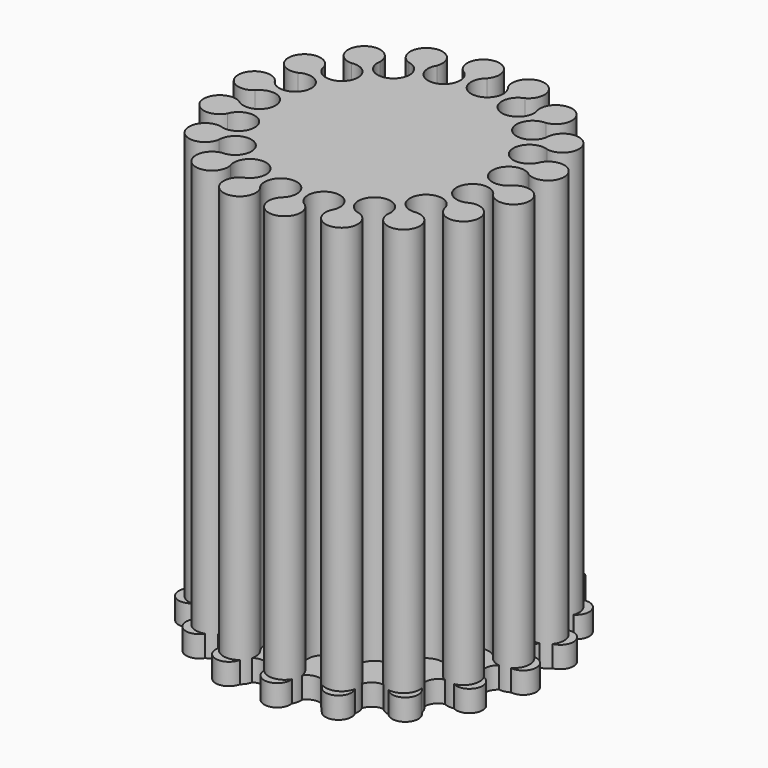
from build123d import *

# Parameters (mm, degrees)
F1_DEPTH = 5
F3_DEPTH = 100


with BuildPart() as f1:
    # F0 (on Top) → F1 (new body)
    with BuildSketch(Plane.XY):
        with BuildLine():
            ThreePointArc((6.077686, 34.468271), (2.784943, 31.83204), (0, 35))
            ThreePointArc((0, 35), (-3.316505, 37.907825), (-6.077686, 34.468271))
            ThreePointArc((-6.077686, 34.468271), (-8.270209, 30.86484), (-11.970705, 32.889242))
            ThreePointArc((-11.970705, 32.889242), (-16.081735, 34.487392), (-17.5, 30.310889))
            ThreePointArc((-17.5, 30.310889), (-18.327851, 26.174884), (-22.497566, 26.811556))
            ThreePointArc((-22.497566, 26.811556), (-26.90727, 26.90727), (-26.811556, 22.497566))
            ThreePointArc((-26.811556, 22.497566), (-26.174884, 18.327851), (-30.310889, 17.5))
            ThreePointArc((-30.310889, 17.5), (-34.487392, 16.081735), (-32.889242, 11.970705))
            ThreePointArc((-32.889242, 11.970705), (-30.86484, 8.270209), (-34.468271, 6.077686))
            ThreePointArc((-34.468271, 6.077686), (-37.907825, 3.316505), (-35, 0))
            ThreePointArc((-35, 0), (-31.83204, -2.784943), (-34.468271, -6.077686))
            ThreePointArc((-34.468271, -6.077686), (-36.756015, -9.848744), (-32.889242, -11.970705))
            ThreePointArc((-32.889242, -11.970705), (-28.959827, -13.504189), (-30.310889, -17.5))
            ThreePointArc((-30.310889, -17.5), (-31.170887, -21.82609), (-26.811556, -22.497566))
            ThreePointArc((-26.811556, -22.497566), (-22.594631, -22.594631), (-22.497566, -26.811556))
            ThreePointArc((-22.497566, -26.811556), (-21.82609, -31.170887), (-17.5, -30.310889))
            ThreePointArc((-17.5, -30.310889), (-13.504189, -28.959827), (-11.970705, -32.889242))
            ThreePointArc((-11.970705, -32.889242), (-9.848744, -36.756015), (-6.077686, -34.468271))
            ThreePointArc((-6.077686, -34.468271), (-2.784943, -31.83204), (0, -35))
            ThreePointArc((0, -35), (3.316505, -37.907825), (6.077686, -34.468271))
            ThreePointArc((6.077686, -34.468271), (8.270209, -30.86484), (11.970705, -32.889242))
            ThreePointArc((11.970705, -32.889242), (16.081735, -34.487392), (17.5, -30.310889))
            ThreePointArc((17.5, -30.310889), (18.327851, -26.174884), (22.497566, -26.811556))
            ThreePointArc((22.497566, -26.811556), (26.90727, -26.90727), (26.811556, -22.497566))
            ThreePointArc((26.811556, -22.497566), (26.174884, -18.327851), (30.310889, -17.5))
            ThreePointArc((30.310889, -17.5), (34.487392, -16.081735), (32.889242, -11.970705))
            ThreePointArc((32.889242, -11.970705), (30.86484, -8.270209), (34.468271, -6.077686))
            ThreePointArc((34.468271, -6.077686), (37.907825, -3.316505), (35, 0))
            ThreePointArc((35, 0), (31.83204, 2.784943), (34.468271, 6.077686))
            ThreePointArc((34.468271, 6.077686), (36.756015, 9.848744), (32.889242, 11.970705))
            ThreePointArc((32.889242, 11.970705), (28.959827, 13.504189), (30.310889, 17.5))
            ThreePointArc((30.310889, 17.5), (31.170887, 21.82609), (26.811556, 22.497566))
            ThreePointArc((26.811556, 22.497566), (22.594631, 22.594631), (22.497566, 26.811556))
            ThreePointArc((22.497566, 26.811556), (21.82609, 31.170887), (17.5, 30.310889))
            ThreePointArc((17.5, 30.310889), (13.504189, 28.959827), (11.970705, 32.889242))
            ThreePointArc((11.970705, 32.889242), (9.848744, 36.756015), (6.077686, 34.468271))
        make_face()
    extrude(amount=F1_DEPTH)


with BuildPart() as f3:
    # F2 (on Top) → F3 (new body)
    with BuildSketch(Plane.XY):
        with BuildLine():
            ThreePointArc((5.209445, 29.544233), (2.043604, 23.358495), (0, 30))
            ThreePointArc((0, 30), (-3.165842, 36.185737), (-5.209445, 29.544233))
            ThreePointArc((-5.209445, 29.544233), (-6.068717, 22.648759), (-10.260604, 28.190779))
            ThreePointArc((-10.260604, 28.190779), (-15.351169, 32.920689), (-15, 25.980762))
            ThreePointArc((-15, 25.980762), (-13.44906, 19.207249), (-19.283628, 22.981333))
            ThreePointArc((-19.283628, 22.981333), (-25.684919, 25.684919), (-22.981333, 19.283628))
            ThreePointArc((-22.981333, 19.283628), (-19.207249, 13.44906), (-25.980762, 15))
            ThreePointArc((-25.980762, 15), (-32.920689, 15.351169), (-28.190779, 10.260604))
            ThreePointArc((-28.190779, 10.260604), (-22.648759, 6.068717), (-29.544233, 5.209445))
            ThreePointArc((-29.544233, 5.209445), (-36.185737, 3.165842), (-30, 0))
            ThreePointArc((-30, 0), (-23.358495, -2.043604), (-29.544233, -5.209445))
            ThreePointArc((-29.544233, -5.209445), (-35.086252, -9.401333), (-28.190779, -10.260604))
            ThreePointArc((-28.190779, -10.260604), (-21.250852, -9.909435), (-25.980762, -15))
            ThreePointArc((-25.980762, -15), (-29.754847, -20.834568), (-22.981333, -19.283628))
            ThreePointArc((-22.981333, -19.283628), (-16.580043, -16.580043), (-19.283628, -22.981333))
            ThreePointArc((-19.283628, -22.981333), (-20.834568, -29.754847), (-15, -25.980762))
            ThreePointArc((-15, -25.980762), (-9.909435, -21.250852), (-10.260604, -28.190779))
            ThreePointArc((-10.260604, -28.190779), (-9.401333, -35.086252), (-5.209445, -29.544233))
            ThreePointArc((-5.209445, -29.544233), (-2.043604, -23.358495), (0, -30))
            ThreePointArc((0, -30), (3.165842, -36.185737), (5.209445, -29.544233))
            ThreePointArc((5.209445, -29.544233), (6.068717, -22.648759), (10.260604, -28.190779))
            ThreePointArc((10.260604, -28.190779), (15.351169, -32.920689), (15, -25.980762))
            ThreePointArc((15, -25.980762), (13.44906, -19.207249), (19.283628, -22.981333))
            ThreePointArc((19.283628, -22.981333), (25.684919, -25.684919), (22.981333, -19.283628))
            ThreePointArc((22.981333, -19.283628), (19.207249, -13.44906), (25.980762, -15))
            ThreePointArc((25.980762, -15), (32.920689, -15.351169), (28.190779, -10.260604))
            ThreePointArc((28.190779, -10.260604), (22.648759, -6.068717), (29.544233, -5.209445))
            ThreePointArc((29.544233, -5.209445), (36.185737, -3.165842), (30, 0))
            ThreePointArc((30, 0), (23.358495, 2.043604), (29.544233, 5.209445))
            ThreePointArc((29.544233, 5.209445), (35.086252, 9.401333), (28.190779, 10.260604))
            ThreePointArc((28.190779, 10.260604), (21.250852, 9.909435), (25.980762, 15))
            ThreePointArc((25.980762, 15), (29.754847, 20.834568), (22.981333, 19.283628))
            ThreePointArc((22.981333, 19.283628), (16.580043, 16.580043), (19.283628, 22.981333))
            ThreePointArc((19.283628, 22.981333), (20.834568, 29.754847), (15, 25.980762))
            ThreePointArc((15, 25.980762), (9.909435, 21.250852), (10.260604, 28.190779))
            ThreePointArc((10.260604, 28.190779), (9.401333, 35.086252), (5.209445, 29.544233))
        make_face()
    extrude(amount=F3_DEPTH)


solid = Compound([f1.part, f3.part])
